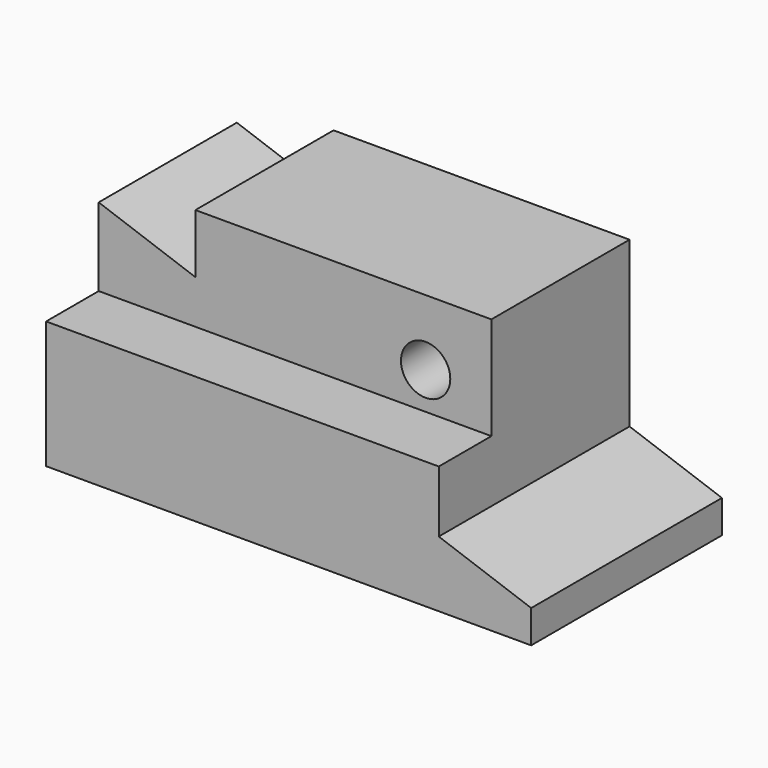
from build123d import *

# Parameters (mm, degrees)
F0_R     = 6
F1_DEPTH = 58
F2_W     = 228.671685
F2_H     = 16
F3_DEPTH = 25


with BuildPart() as f1:
    # F0 (on Front) → F1 (new body)
    with BuildSketch(Plane.XZ):
        Polygon((0, 50), (0, 0), (58, 0), (58, 29.355932), (23.52381, 41.627119), align=None)
        Polygon((58, 29.355932), (58, 0), (118, 0), (118, 8), (95.52381, 16), (95.52381, 56), (23.52381, 56), (23.52381, 41.627119), align=None)
        with Locations((79.52381, 40)):
            Circle(F0_R, mode=Mode.SUBTRACT)
    extrude(amount=F1_DEPTH)

    # F2 (on face) → F3 (cut)
    with BuildSketch(Plane.XY.offset(56)):
        with Locations((114.335842, -50)):
            Rectangle(F2_W, F2_H)
    extrude(amount=-F3_DEPTH, mode=Mode.SUBTRACT)


solid = f1.part
